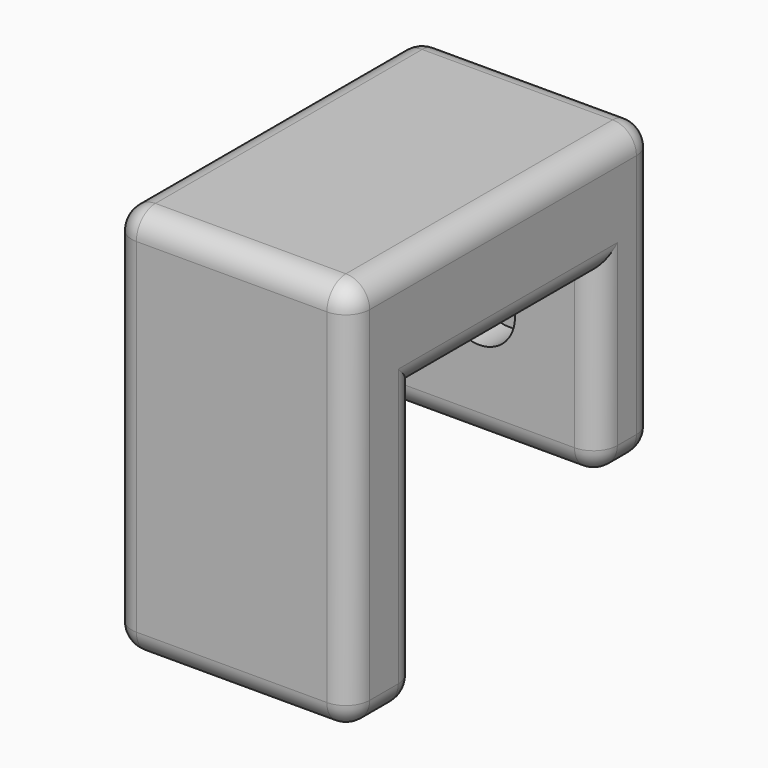
from build123d import *

# Parameters (mm, degrees)
F1_DEPTH       = 20
F3_D           = 3.2
F3_DEPTH       = 10
F3_CBORE_D     = 6
F3_CBORE_DEPTH = 3.2
F4_R           = 2


with BuildPart() as f1:
    # F0 (on Right) → F1 (new body)
    with BuildSketch(Plane.YZ):
        Polygon((6, 0), (0, 0), (-26, 0), (-26, -32.884616), (-19, -32.884616), (-19, -9.615385), (0, -9.615385), (0, -24.615385), (6, -24.615385), align=None)
        Polygon((6, 0), (0, 0), (-26, 0), (-26, -32.884616), (-19, -32.884616), (-19, -9.615385), (0, -9.615385), (0, -24.615385), (6, -24.615385), align=None)
    extrude(amount=F1_DEPTH)

    # F3
    with Locations(Plane.XZ):
        with Locations((10, -14.615385)):
            CounterBoreHole(F3_D / 2, F3_CBORE_D / 2, F3_CBORE_DEPTH, depth=F3_DEPTH)

    # F4
    f4_edges = [f1.edges().sort_by_distance(p)[0] for p in [
        (10, -26, 0),
        (20, -26, -16.442308),
        (20, -10, 0),
        (10, -26, -32.884616),
        (10, -19, -32.884616),
        (0, -22.5, -32.884616),
        (20, -22.5, -32.884616),
        (20, -19, -21.250001),
        (20, -9.5, -9.615385),
        (20, 0, -17.115385),
        (20, 3, -24.615385),
        (20, 6, -12.307692),
        (10, 0, -24.615385),
        (10, 6, -24.615385),
        (0, 3, -24.615385),
        (0, -10, 0),
        (0, -26, -16.442308),
        (0, -19, -21.250001),
        (0, -9.5, -9.615385),
        (0, 0, -17.115385),
        (0, 6, -12.307692),
        (10, 6, 0),
    ]]
    fillet(f4_edges, radius=F4_R)


solid = f1.part
